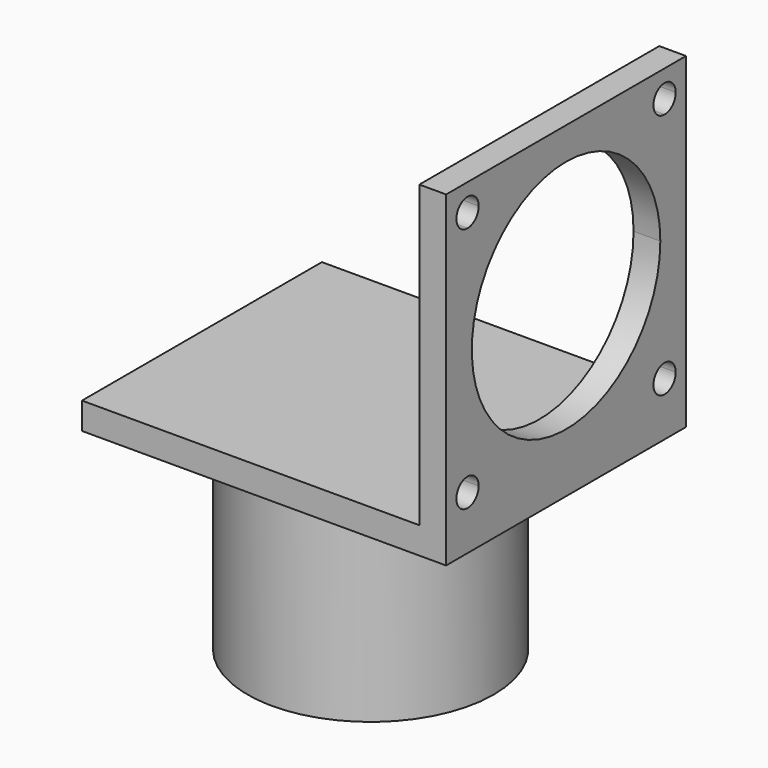
from build123d import *

# Parameters (mm, degrees)
F0_W     = 31.5
F0_H     = 28
F1_DEPTH = 2.5
F0_W_2   = 2.5
F2_DEPTH = 30.5
F4_DEPTH = 2.5
F5_R     = 11.5
F5_R_2   = 2.5
F6_DEPTH = 18.5


with BuildPart() as f1:
    # F0 (on Top) → F1 (new body)
    with BuildSketch(Plane.XY):
        Rectangle(F0_W, F0_H)
    extrude(amount=F1_DEPTH)

    # F0 (on Top) → F2 (join)
    with BuildSketch(Plane.XY):
        with Locations((17, 0)):
            Rectangle(F0_W_2, F0_H)
    extrude(amount=F2_DEPTH)

    # F3 (on face) → F4 (cut)
    with BuildSketch(Plane.YZ.offset(18.25)):
        with BuildLine():
            Line((-11.5, 28), (-10.2, 28))
            ThreePointArc((-10.2, 28), (-12.419239, 28.919239), (-11.5, 26.7))
            Line((-11.5, 26.7), (-11.5, 28))
        make_face()
        with BuildLine():
            Line((-11.5, 5), (-11.5, 6.3))
            ThreePointArc((-11.5, 6.3), (-12.419239, 4.080761), (-10.2, 5))
            Line((-10.2, 5), (-11.5, 5))
        make_face()
        with BuildLine():
            ThreePointArc((-10.2, 5), (-10.580761, 5.919239), (-11.5, 6.3))
            Line((-11.5, 6.3), (-11.5, 5))
            Line((-11.5, 5), (-10.2, 5))
        make_face()
        with BuildLine():
            Line((11.5, 5), (11.5, 6.3))
            ThreePointArc((11.5, 6.3), (10.580761, 5.919239), (10.2, 5))
            Line((10.2, 5), (11.5, 5))
        make_face()
        with BuildLine():
            ThreePointArc((12.8, 5), (12.419239, 5.919239), (11.5, 6.3))
            Line((11.5, 6.3), (11.5, 5))
            Line((11.5, 5), (10.2, 5))
            ThreePointArc((10.2, 5), (11.5, 3.7), (12.8, 5))
        make_face()
        with BuildLine():
            ThreePointArc((11, 16.5), (7.778175, 24.278175), (0, 27.5))
            ThreePointArc((0, 27.5), (-7.778175, 8.721825), (11, 16.5))
        make_face()
        with BuildLine():
            ThreePointArc((-11.5, 26.7), (-10.580761, 27.080761), (-10.2, 28))
            Line((-10.2, 28), (-11.5, 28))
            Line((-11.5, 28), (-11.5, 26.7))
        make_face()
        with BuildLine():
            Line((11.5, 28), (10.2, 28))
            ThreePointArc((10.2, 28), (10.580761, 27.080761), (11.5, 26.7))
            Line((11.5, 26.7), (11.5, 28))
        make_face()
        with BuildLine():
            ThreePointArc((12.8, 28), (11.5, 29.3), (10.2, 28))
            Line((10.2, 28), (11.5, 28))
            Line((11.5, 28), (11.5, 26.7))
            ThreePointArc((11.5, 26.7), (12.419239, 27.080761), (12.8, 28))
        make_face()
    extrude(amount=-F4_DEPTH, mode=Mode.SUBTRACT)

    # F5 (on face) → F6 (join)
    with BuildSketch(Plane(origin=(0, 0, 0), x_dir=(1, 0, 0), z_dir=(0, 0, -1))):
        Circle(F5_R)
        Circle(F5_R_2, mode=Mode.SUBTRACT)
    extrude(amount=F6_DEPTH)


solid = f1.part
